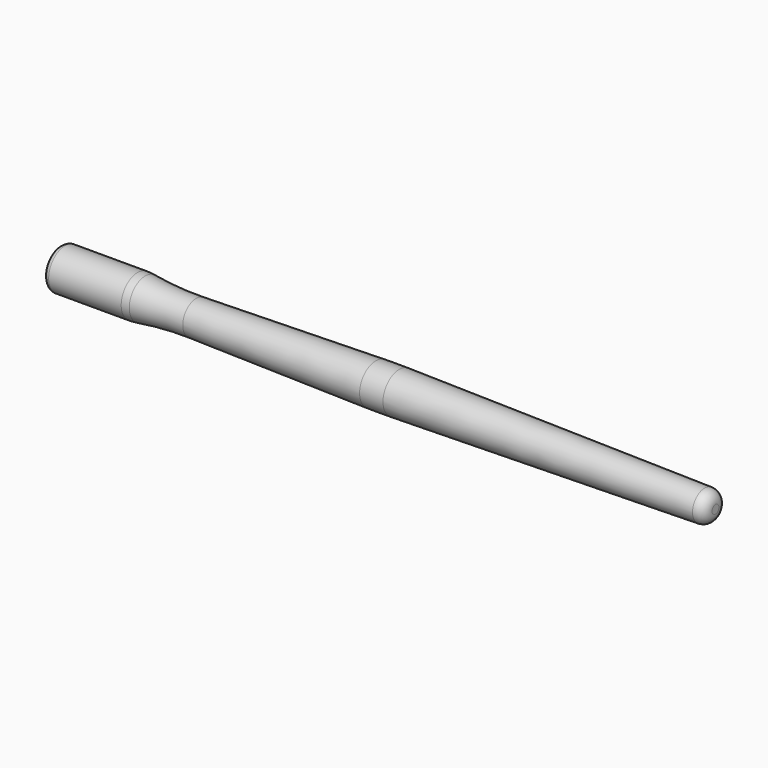
from build123d import *

# Parameters (mm, degrees)
F2_R = 2.54
F3_R = 1.27


with BuildPart() as f1:
    # F0 (on Top) → F1 (revolve)
    with BuildSketch(Plane.XY):
        with BuildLine():
            Line((-58.079902, 4.7625), (-76.2, 4.7625))
            Line((-76.2, 4.7625), (-76.2, 0))
            Line((-76.2, 0), (76.2, 0))
            Line((76.2, 0), (76.2, 3.4925))
            Line((76.2, 3.4925), (2.721047, 4.717149))
            ThreePointArc((2.721047, 4.717149), (2.9e-05, 4.738204), (-2.720931, 4.710673))
            Line((-2.720931, 4.710673), (-44.45, 3.915833))
            ThreePointArc((-44.45, 3.915833), (-50.389272, 4.03983), (-56.299735, 4.637118))
            ThreePointArc((-56.299735, 4.637118), (-57.187613, 4.731116), (-58.079902, 4.7625))
        make_face()
    revolve(axis=Axis((0, 0, 0), (1, 0, 0)))

    # F2
    f2_edges = [f1.edges().sort_by_distance(p)[0] for p in [
        (76.2, -3.4925, 0),
    ]]
    fillet(f2_edges, radius=F2_R)

    # F3
    f3_edges = [f1.edges().sort_by_distance(p)[0] for p in [
        (-76.2, -4.7625, 0),
    ]]
    fillet(f3_edges, radius=F3_R)


solid = f1.part
